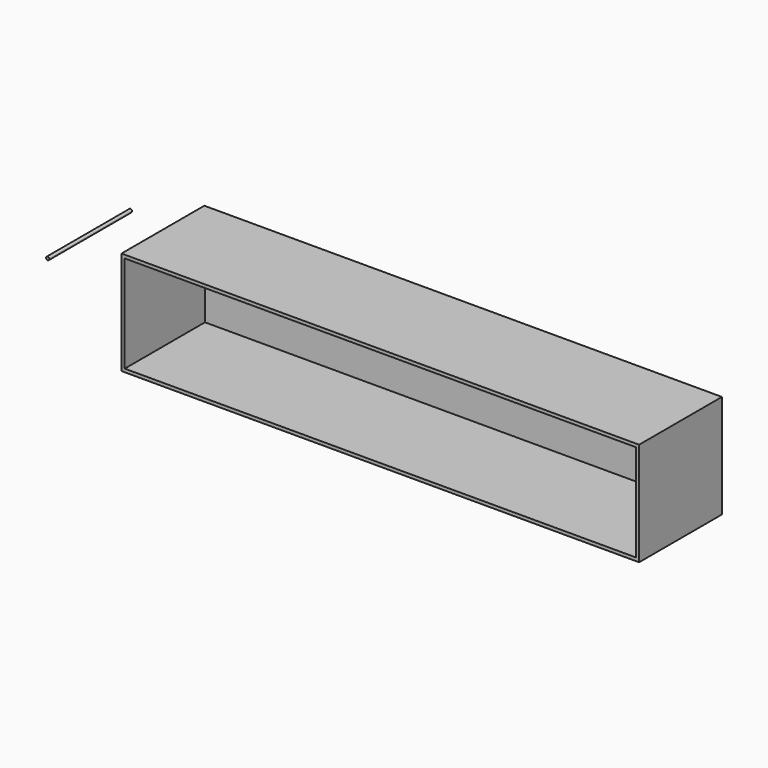
from build123d import *

# Parameters (mm, degrees)
F0_W     = 1016
F0_H     = 203.2
F1_DEPTH = 203.2
F2_T     = -6.35
F3_R     = 3.175
F4_DEPTH = 203.2


with BuildPart() as f1:
    # F0 (on Front) → F1 (new body)
    with BuildSketch(Plane.XZ):
        with Locations((-396.813076, 7.415561)):
            Rectangle(F0_W, F0_H)
    extrude(amount=F1_DEPTH)

    # F2
    f2_openings = [f1.faces().sort_by_distance(p)[0] for p in [
        (-396.813076, -203.2, 7.415561),
    ]]
    offset(amount=F2_T, openings=f2_openings)


with BuildPart() as f4:
    # F3 (on Front) → F4 (new body)
    with BuildSketch(Plane.XZ):
        with Locations((-1049.698234, 53.406097)):
            Circle(F3_R)
    extrude(amount=F4_DEPTH)


solid = Compound([f1.part, f4.part])
